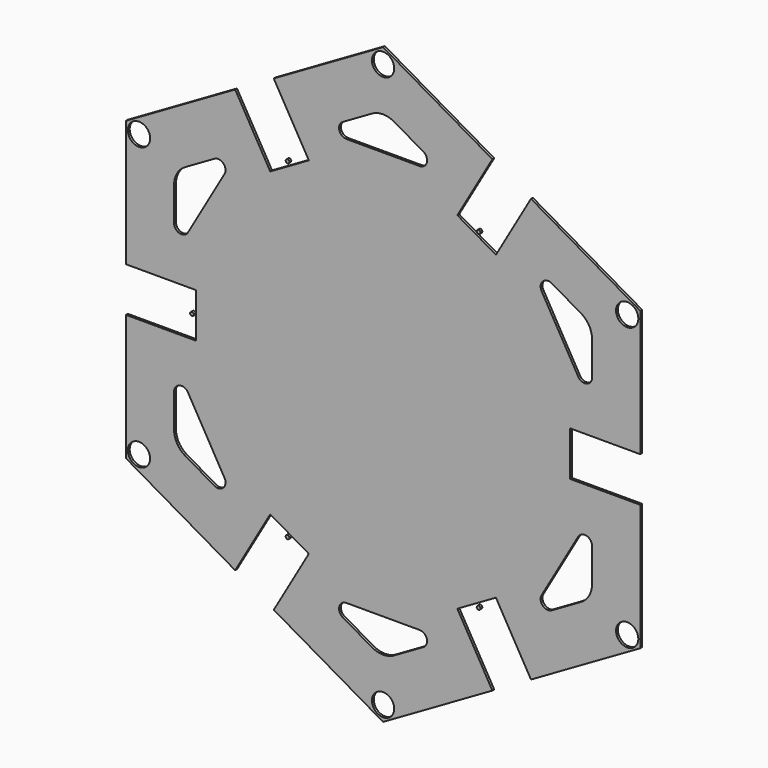
from build123d import *

# Parameters (mm, degrees)
F1_DEPTH  = 0.79375
F4_W      = 30.48
F4_H      = 15.24
F4_R      = 0.635
F5_DEPTH  = 0.79475
F7_D      = 7.62
F10_DEPTH = 0.79475


with BuildPart() as f1:
    # F0 (on Front) → F1 (new body)
    with BuildSketch(Plane.XZ):
        Polygon((87.988181, 50.8), (0, 101.6), (-87.988181, 50.8), (-87.988181, -50.8), (0, -101.6), (87.988181, -50.8), align=None)
    extrude(amount=F1_DEPTH)

    # F4 (on face) → F5 (cut, through all)
    with BuildSketch(Plane.XZ.offset(0.79375)):
        with Locations((79.248181, 0)):
            Rectangle(F4_W, F4_H)
        Polygon((25.404977, 59.242711), (38.603204, 51.622711), (53.843204, 78.019165), (40.644977, 85.639165), align=None)
        with Locations((32.674091, 56.593185)):
            Circle(F4_R, mode=Mode.SUBTRACT)
        with Locations((46.574091, 80.668691)):
            Circle(F4_R, mode=Mode.SUBTRACT)
        Polygon((-38.603204, 51.622711), (-25.404977, 59.242711), (-40.644977, 85.639165), (-53.843204, 78.019165), align=None)
        with Locations((-32.674091, 56.593185)):
            Circle(F4_R, mode=Mode.SUBTRACT)
        with Locations((-46.574091, 80.668691)):
            Circle(F4_R, mode=Mode.SUBTRACT)
        with Locations((-79.248181, 0)):
            Rectangle(F4_W, F4_H)
        with Locations((-93.148181, 0)):
            Circle(F4_R, mode=Mode.SUBTRACT)
        with Locations((-65.348181, 0)):
            Circle(F4_R, mode=Mode.SUBTRACT)
        Polygon((-25.404977, -59.242711), (-38.603204, -51.622711), (-53.843204, -78.019165), (-40.644977, -85.639165), align=None)
        with Locations((-46.574091, -80.668691)):
            Circle(F4_R, mode=Mode.SUBTRACT)
        with Locations((-32.674091, -56.593185)):
            Circle(F4_R, mode=Mode.SUBTRACT)
        Polygon((38.603204, -51.622711), (25.404977, -59.242711), (40.644977, -85.639165), (53.843204, -78.019165), align=None)
        with Locations((46.574091, -80.668691)):
            Circle(F4_R, mode=Mode.SUBTRACT)
        with Locations((32.674091, -56.593185)):
            Circle(F4_R, mode=Mode.SUBTRACT)
    extrude(amount=-F5_DEPTH, mode=Mode.SUBTRACT)

    # F7 (through all)
    with Locations(Plane.XZ.offset(0.79375)):
        with Locations((83.498053, -48.207623), (0, -96.415247), (-83.498053, -48.207623), (-83.498053, 48.207623), (0, 96.415247), (83.498053, 48.207623)):
            Hole(F7_D / 2)

    # F9 (on face) → F10 (cut, through all)
    with BuildSketch(Plane.XZ.offset(0.79375)):
        with BuildLine():
            ThreePointArc((-13.787636, 74.589705), (-14.971088, 71.7326), (-12.517636, 69.85))
            Line((-12.517636, 69.85), (12.517636, 69.85))
            ThreePointArc((12.517636, 69.85), (14.971088, 71.7326), (13.787636, 74.589705))
            Line((13.787636, 74.589705), (3.81, 80.350295))
            ThreePointArc((3.81, 80.350295), (0, 81.371182), (-3.81, 80.350295))
            Line((-3.81, 80.350295), (-13.787636, 74.589705))
        make_face()
        with BuildLine():
            ThreePointArc((-54.233056, 45.765591), (-54.63671, 48.831642), (-57.702761, 49.235295))
            Line((-57.702761, 49.235295), (-67.680397, 43.474705))
            ThreePointArc((-67.680397, 43.474705), (-70.469511, 40.685591), (-71.490397, 36.875591))
            Line((-71.490397, 36.875591), (-71.490397, 25.354409))
            ThreePointArc((-71.490397, 25.354409), (-69.607797, 22.900957), (-66.750693, 24.084409))
            Line((-66.750693, 24.084409), (-54.233056, 45.765591))
        make_face()
        with BuildLine():
            ThreePointArc((-66.750693, -24.084409), (-69.607797, -22.900957), (-71.490397, -25.354409))
            Line((-71.490397, -25.354409), (-71.490397, -36.875591))
            ThreePointArc((-71.490397, -36.875591), (-70.469511, -40.685591), (-67.680397, -43.474705))
            Line((-67.680397, -43.474705), (-57.702761, -49.235295))
            ThreePointArc((-57.702761, -49.235295), (-54.63671, -48.831642), (-54.233056, -45.765591))
            Line((-54.233056, -45.765591), (-66.750693, -24.084409))
        make_face()
        with BuildLine():
            ThreePointArc((-12.517636, -69.85), (-14.971088, -71.7326), (-13.787636, -74.589705))
            Line((-13.787636, -74.589705), (-3.81, -80.350295))
            ThreePointArc((-3.81, -80.350295), (0, -81.371182), (3.81, -80.350295))
            Line((3.81, -80.350295), (13.787636, -74.589705))
            ThreePointArc((13.787636, -74.589705), (14.971088, -71.7326), (12.517636, -69.85))
            Line((12.517636, -69.85), (-12.517636, -69.85))
        make_face()
        with BuildLine():
            ThreePointArc((54.233056, -45.765591), (54.63671, -48.831642), (57.702761, -49.235295))
            Line((57.702761, -49.235295), (67.680397, -43.474705))
            ThreePointArc((67.680397, -43.474705), (70.469511, -40.685591), (71.490397, -36.875591))
            Line((71.490397, -36.875591), (71.490397, -25.354409))
            ThreePointArc((71.490397, -25.354409), (69.607797, -22.900957), (66.750693, -24.084409))
            Line((66.750693, -24.084409), (54.233056, -45.765591))
        make_face()
        with BuildLine():
            ThreePointArc((66.750693, 24.084409), (69.607797, 22.900957), (71.490397, 25.354409))
            Line((71.490397, 25.354409), (71.490397, 36.875591))
            ThreePointArc((71.490397, 36.875591), (70.469511, 40.685591), (67.680397, 43.474705))
            Line((67.680397, 43.474705), (57.702761, 49.235295))
            ThreePointArc((57.702761, 49.235295), (54.63671, 48.831642), (54.233056, 45.765591))
            Line((54.233056, 45.765591), (66.750693, 24.084409))
        make_face()
    extrude(amount=-F10_DEPTH, mode=Mode.SUBTRACT)


solid = f1.part
